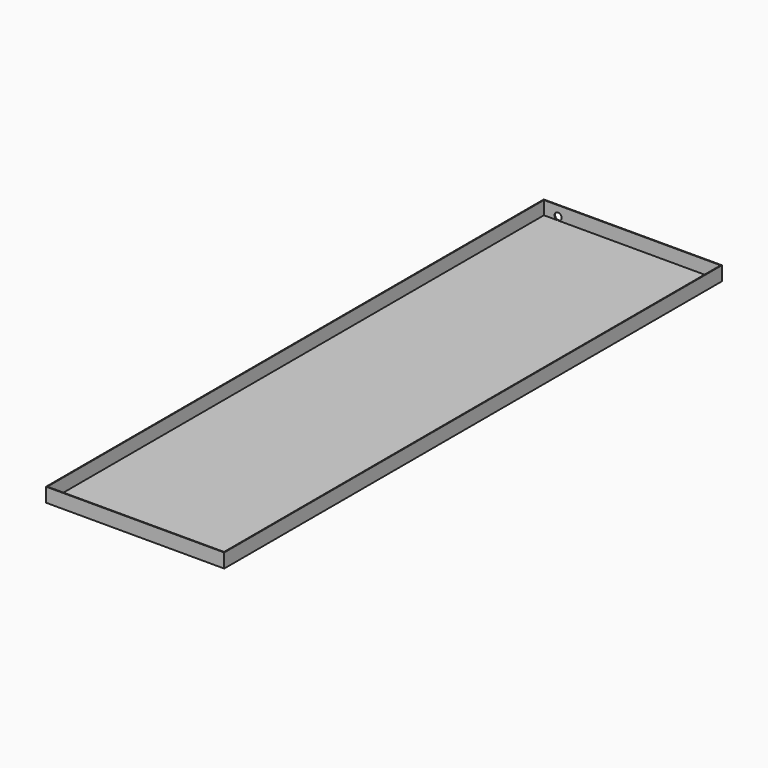
from build123d import *

# Parameters (mm, degrees)
F0_W     = 630
F0_H     = 50
F1_DEPTH = 2200
F2_T     = -2.5
F4_DEPTH = 30


with BuildPart() as f1:
    # F0 (on Front) → F1 (new body)
    with BuildSketch(Plane.XZ):
        with Locations((315, 25)):
            Rectangle(F0_W, F0_H)
    extrude(amount=F1_DEPTH)

    # F2
    f2_openings = [f1.faces().sort_by_distance(p)[0] for p in [
        (315, -1100, 50),
    ]]
    offset(amount=F2_T, openings=f2_openings)

    # F3 (on face) → F4 (cut)
    with BuildSketch(Plane.XZ.offset(2.5)):
        with BuildLine():
            ThreePointArc((52.5, 2.5), (61.338835, 6.161165), (65, 15))
            ThreePointArc((65, 15), (43.661165, 23.838835), (52.5, 2.5))
        make_face()
    extrude(amount=-F4_DEPTH, mode=Mode.SUBTRACT)


solid = f1.part
